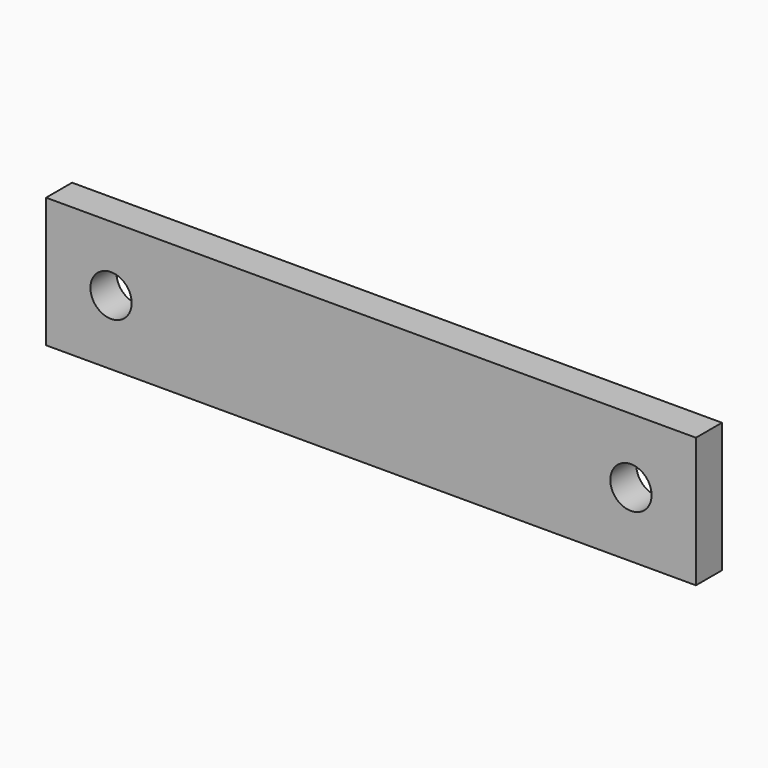
from build123d import *

# Parameters (mm, degrees)
SKETCH_W  = 200
SKETCH_H  = 40
SKETCH_R  = 6.35
PAD_DEPTH = 10


with BuildPart() as part:
    # Sketch → Pad (new body)
    with BuildSketch(Plane.XZ):
        with Locations((100, 20)):
            Rectangle(SKETCH_W, SKETCH_H)
        with Locations((20, 20)):
            Circle(SKETCH_R, mode=Mode.SUBTRACT)
        with Locations((180, 20)):
            Circle(SKETCH_R, mode=Mode.SUBTRACT)
    extrude(amount=PAD_DEPTH)


solid = part.part
